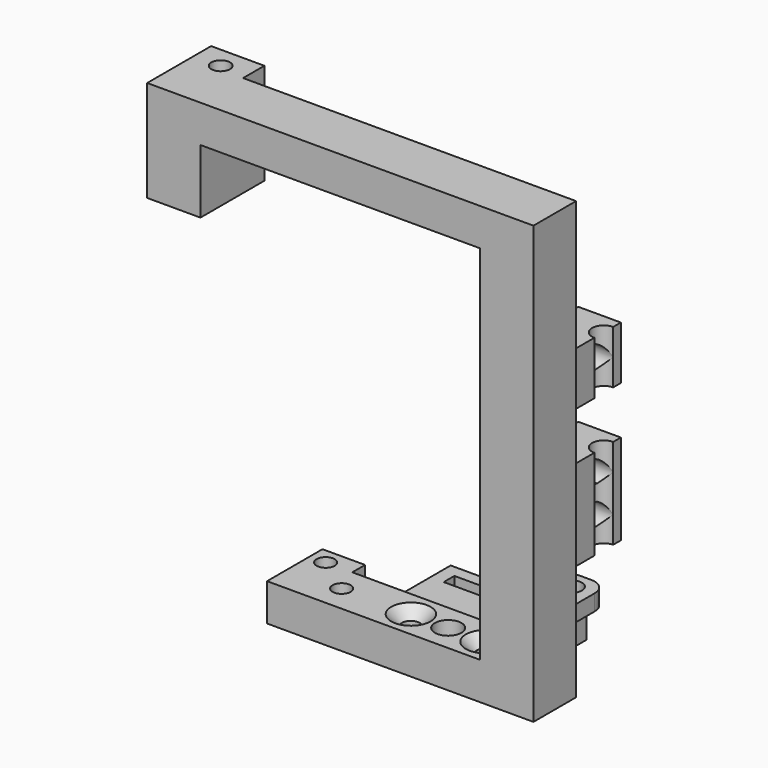
from build123d import *

# Parameters (mm, degrees)
BOX001027045198_W       = 10
BOX001027045198_H       = 2.5
BOX001027045198_DEPTH   = 20.5
BOX001027045197_W       = 10
BOX001027045197_H       = 3
BOX001027045197_DEPTH   = 21.5
BOX001027045196_W       = 4
BOX001027045196_H       = 14
BOX001027045196_DEPTH   = 25.5
CUT238_PITCH_ANGLE      = 90
CYLINDER070_R           = 1.7
CYLINDER070_DEPTH       = 50
CYLINDER069_R           = 1.7
CYLINDER069_DEPTH       = 50
CYLINDER068_R           = 1.7
CYLINDER068_DEPTH       = 50
CYLINDER067_R           = 1.7
CYLINDER067_DEPTH       = 50
CYLINDER063_R           = 2.5
CYLINDER063_DEPTH       = 50
CYLINDER064_R           = 4.5
CYLINDER064_DEPTH       = 4
BOX035_W                = 50
BOX035_H                = 10
BOX035_DEPTH            = 7
BOX034_W                = 10
BOX034_H                = 4.5
BOX034_DEPTH            = 122
BOX033_W                = 10
BOX033_H                = 10
BOX033_DEPTH            = 80
CHAMFER_SIZE            = 0.9
BOX041_W                = 8
BOX041_H                = 5
BOX041_DEPTH            = 7
CHAMFER017_SIZE         = 2
CYLINDER273_R           = 2
CYLINDER273_DEPTH       = 10
CYLINDER273_PITCH_ANGLE = 90
BOX001027045201_W       = 3
BOX001027045201_H       = 8
BOX001027045201_DEPTH   = 8
FILLET047_R             = 3
CUT246_PITCH_ANGLE      = -90
CUT246_PLACEMENT_ANGLE  = 90
BOX001027045204_W       = 8
BOX001027045204_H       = 6
BOX001027045204_DEPTH   = 17
BOX001027045205_W       = 8
BOX001027045205_H       = 6
BOX001027045205_DEPTH   = 10
CYLINDER272_R           = 2.2
CYLINDER272_DEPTH       = 30
CYLINDER271_R           = 2.2
CYLINDER271_DEPTH       = 30
CYLINDER271_PITCH_ANGLE = 90
CYLINDER270_R           = 1.7
CYLINDER270_DEPTH       = 30
CYLINDER270_PITCH_ANGLE = 90
BOX001027045200_W       = 10
BOX001027045200_H       = 9
BOX001027045200_DEPTH   = 10
CHAMFER015_SIZE         = 2
CHAMFER016_SIZE         = 2
FILLET046_R             = 3
CYLINDER275_R           = 1.75
CYLINDER275_DEPTH       = 200
BOX001027045203_W       = 10
BOX001027045203_H       = 15
BOX001027045203_DEPTH   = 19
BOX001027045202_W       = 68
BOX001027045202_H       = 10
BOX001027045202_DEPTH   = 7


with BuildPart() as cube244:
    # Box001027045198 → Box001027045198 (new body)
    with BuildSketch(Plane(origin=(63, 7.25, -46.5), x_dir=(1, 0, 0), z_dir=(0, 0, 1))):
        with Locations((5, 1.25)):
            Rectangle(BOX001027045198_W, BOX001027045198_H)
    extrude(amount=BOX001027045198_DEPTH)


with BuildPart() as pin_strip_hole:
    # Box001027045197 → Box001027045197 (new body)
    with BuildSketch(Plane(origin=(70, 7, -47), x_dir=(1, 0, 0), z_dir=(0, 0, 1))):
        with Locations((5, 1.5)):
            Rectangle(BOX001027045197_W, BOX001027045197_H)
    extrude(amount=BOX001027045197_DEPTH)

    # Fusion112152: union Cube244
    add(cube244.part)


with BuildPart() as pin_strip_hole_1:
    # Fusion112152 placement: moved
    add(pin_strip_hole.part.moved(Location((2, 0, 0))))


with BuildPart() as pin_strip_bracket:
    # Box001027045196 → Box001027045196 (new body)
    with BuildSketch(Plane(origin=(70, -2, -49), x_dir=(1, 0, 0), z_dir=(0, 0, 1))):
        with Locations((2, 7)):
            Rectangle(BOX001027045196_W, BOX001027045196_H)
    extrude(amount=BOX001027045196_DEPTH)

    # Cut238: cut pin-strip-hole
    add(pin_strip_hole_1.part, mode=Mode.SUBTRACT)


with BuildPart() as pin_strip_bracket_1:
    # Cut238 pitch: moved
    add(pin_strip_bracket.part.rotate(Axis((0, 0, 0), (0, 1, 0)), CUT238_PITCH_ANGLE))


with BuildPart() as pin_strip_bracket_2:
    # Cut238 placement: moved
    add(pin_strip_bracket_1.part.moved(Location((96, 21.7, 101))))


with BuildPart() as m3_studding011:
    # Cylinder070 → Cylinder070 (new body)
    with BuildSketch(Plane(origin=(41.5, 15, -6), x_dir=(1, 0, 0), z_dir=(0, 0, 1))):
        Circle(CYLINDER070_R)
    extrude(amount=CYLINDER070_DEPTH)


with BuildPart() as m3_clearance001:
    # Cylinder069 → Cylinder069 (new body)
    with BuildSketch(Plane(origin=(34.5, 20, -6), x_dir=(1, 0, 0), z_dir=(0, 0, 1))):
        Circle(CYLINDER069_R)
    extrude(amount=CYLINDER069_DEPTH)

    # Fusion041: union m3-studding011
    add(m3_studding011.part)


with BuildPart() as m3_studding009:
    # Cylinder068 → Cylinder068 (new body)
    with BuildSketch(Plane(origin=(68.5, 15, 2), x_dir=(1, 0, 0), z_dir=(0, 0, 1))):
        Circle(CYLINDER068_R)
    extrude(amount=CYLINDER068_DEPTH)


with BuildPart() as m3_clearance004:
    # Cylinder067 → Cylinder067 (new body)
    with BuildSketch(Plane(origin=(54.5, 15, 2), x_dir=(1, 0, 0), z_dir=(0, 0, 1))):
        Circle(CYLINDER067_R)
    extrude(amount=CYLINDER067_DEPTH)

    # Fusion039: union m3-studding009
    add(m3_studding009.part)


with BuildPart() as nut_clearance:
    # Cylinder063 → Cylinder063 (new body)
    with BuildSketch(Plane(origin=(61.5, 15, 2), x_dir=(1, 0, 0), z_dir=(0, 0, 1))):
        Circle(CYLINDER063_R)
    extrude(amount=CYLINDER063_DEPTH)


with BuildPart() as bearing_nuts:
    # Cylinder064 → Cylinder064 (new body)
    with BuildSketch(Plane(origin=(61.5, 15, 25), x_dir=(1, 0, 0), z_dir=(0, 0, 1))):
        Circle(CYLINDER064_R)
    extrude(amount=CYLINDER064_DEPTH)

    # Fusion036: union nut-clearance
    add(nut_clearance.part)


with BuildPart() as cube032:
    # Box035 → Box035 (new body)
    with BuildSketch(Plane(origin=(31.5, 10, 26), x_dir=(1, 0, 0), z_dir=(0, 0, 1))):
        with Locations((25, 5)):
            Rectangle(BOX035_W, BOX035_H)
    extrude(amount=BOX035_DEPTH)


with BuildPart() as cube031:
    # Box034 → Box034 (new body)
    with BuildSketch(Plane(origin=(62.5, 12.75, 10), x_dir=(1, 0, 0), z_dir=(0, 0, 1))):
        with Locations((5, 2.25)):
            Rectangle(BOX034_W, BOX034_H)
    extrude(amount=BOX034_DEPTH)


with BuildPart() as track_blank_c:
    # Box033 → Box033 (new body)
    with BuildSketch(Plane(origin=(71.5, 10, 25), x_dir=(1, 0, 0), z_dir=(0, 0, 1))):
        with Locations((5, 5)):
            Rectangle(BOX033_W, BOX033_H)
    extrude(amount=BOX033_DEPTH)

    # Cut022: cut Cube031
    add(cube031.part, mode=Mode.SUBTRACT)

    # Chamfer
    chamfer_edges = [track_blank_c.edges().sort_by_distance(p)[0] for p in [
        (71.5, 12.75, 65),
        (71.5, 17.25, 65),
    ]]
    chamfer(chamfer_edges, length=CHAMFER_SIZE)


with BuildPart() as track_blank_c_1:
    # Chamfer placement: moved
    add(track_blank_c.part.moved(Location((0, 0, 3))))

    # Fusion035: union Cube032
    add(cube032.part)

    # Cut024: cut bearing-nuts
    add(bearing_nuts.part, mode=Mode.SUBTRACT)

    # Cut027: cut M3-clearance004
    add(m3_clearance004.part, mode=Mode.SUBTRACT)


with BuildPart() as track_blank_f:
    # Box041 → Box041 (new body)
    with BuildSketch(Plane(origin=(31.5, 18, 26), x_dir=(1, 0, 0), z_dir=(0, 0, 1))):
        with Locations((4, 2.5)):
            Rectangle(BOX041_W, BOX041_H)
    extrude(amount=BOX041_DEPTH)

    # Fusion040: union track-blank-c
    add(track_blank_c_1.part)

    # Cut029: cut M3-clearance001
    add(m3_clearance001.part, mode=Mode.SUBTRACT)

    # Chamfer017
    chamfer017_edges = [track_blank_f.edges().sort_by_distance(p)[0] for p in [
        (52.8, 15, 33),
        (66.8, 15, 33),
    ]]
    chamfer(chamfer017_edges, length=CHAMFER017_SIZE)


with BuildPart() as cylinder289:
    # Cylinder273 → Cylinder273 (new body)
    with BuildSketch(Plane.XY):
        Circle(CYLINDER273_R)
    extrude(amount=CYLINDER273_DEPTH)


with BuildPart() as cylinder289_1:
    # Cylinder273 pitch: moved
    add(cylinder289.part.rotate(Axis((0, 0, 0), (0, 1, 0)), CYLINDER273_PITCH_ANGLE))


with BuildPart() as cylinder289_2:
    # Cylinder273 placement: moved
    add(cylinder289_1.part.moved(Location((-3, 4, 4.5))))


with BuildPart() as cable_tie_holder:
    # Box001027045201 → Box001027045201 (new body)
    with BuildSketch(Plane.XY):
        with Locations((1.5, 4)):
            Rectangle(BOX001027045201_W, BOX001027045201_H)
    extrude(amount=BOX001027045201_DEPTH)

    # Fillet047
    fillet047_edges = [cable_tie_holder.edges().sort_by_distance(p)[0] for p in [
        (1.5, 0, 8),
        (1.5, 8, 8),
    ]]
    fillet(fillet047_edges, radius=FILLET047_R)

    # Cut246: cut Cylinder289
    add(cylinder289_2.part, mode=Mode.SUBTRACT)


with BuildPart() as cable_tie_holder_1:
    # Cut246 pitch: moved
    add(cable_tie_holder.part.rotate(Axis((0, 0, 0), (0, 1, 0)), CUT246_PITCH_ANGLE))


with BuildPart() as cable_tie_holder_2:
    # Cut246 placement: moved
    add(cable_tie_holder_1.part.moved(Location((81, 11, 27))).rotate(Axis((81, 11, 27), (0, 0, 1)), CUT246_PLACEMENT_ANGLE))


with BuildPart() as part_mirroring020:
    # Part__Mirroring020: instance of cable-tie-holder
    add(cable_tie_holder_2.part.mirror(Plane(origin=(0, 0, 0), x_dir=(1, 0, 0), z_dir=(0, 1, 0))))


with BuildPart() as part_mirroring020_1:
    # Part__Mirroring020 placement: moved
    add(part_mirroring020.part.moved(Location((0, 31, 11))))


with BuildPart() as cube250:
    # Box001027045204 → Box001027045204 (new body)
    with BuildSketch(Plane(origin=(71.5, 19, 46), x_dir=(1, 0, 0), z_dir=(0, 0, 1))):
        with Locations((4, 3)):
            Rectangle(BOX001027045204_W, BOX001027045204_H)
    extrude(amount=BOX001027045204_DEPTH)


with BuildPart() as cube251:
    # Box001027045205 → Box001027045205 (new body)
    with BuildSketch(Plane(origin=(71.5, 19, 72), x_dir=(1, 0, 0), z_dir=(0, 0, 1))):
        with Locations((4, 3)):
            Rectangle(BOX001027045205_W, BOX001027045205_H)
    extrude(amount=BOX001027045205_DEPTH)


with BuildPart() as cylinder288:
    # Cylinder272 → Cylinder272 (new body)
    with BuildSketch(Plane(origin=(79.5, 5, 48), x_dir=(1, 0, 0), z_dir=(0, 0, 1))):
        Circle(CYLINDER272_R)
    extrude(amount=CYLINDER272_DEPTH)


with BuildPart() as cylinder287:
    # Cylinder271 → Cylinder271 (new body)
    with BuildSketch(Plane.XY):
        Circle(CYLINDER271_R)
    extrude(amount=CYLINDER271_DEPTH)


with BuildPart() as cylinder287_1:
    # Cylinder271 pitch: moved
    add(cylinder287.part.rotate(Axis((0, 0, 0), (0, 1, 0)), CYLINDER271_PITCH_ANGLE))


with BuildPart() as cylinder287_2:
    # Cylinder271 placement: moved
    add(cylinder287_1.part.moved(Location((74, 5, 58))))


with BuildPart() as cylinder286:
    # Cylinder270 → Cylinder270 (new body)
    with BuildSketch(Plane.XY):
        Circle(CYLINDER270_R)
    extrude(amount=CYLINDER270_DEPTH)


with BuildPart() as cylinder286_1:
    # Cylinder270 pitch: moved
    add(cylinder286.part.rotate(Axis((0, 0, 0), (0, 1, 0)), CYLINDER270_PITCH_ANGLE))


with BuildPart() as cylinder286_2:
    # Cylinder270 placement: moved
    add(cylinder286_1.part.moved(Location((57, 5, 58))))


with BuildPart() as led_pt_holder:
    # Box001027045200 → Box001027045200 (new body)
    with BuildSketch(Plane(origin=(71, 1, 53), x_dir=(1, 0, 0), z_dir=(0, 0, 1))):
        with Locations((5, 4.5)):
            Rectangle(BOX001027045200_W, BOX001027045200_H)
    extrude(amount=BOX001027045200_DEPTH)

    # Chamfer015
    chamfer015_edges = [led_pt_holder.edges().sort_by_distance(p)[0] for p in [
        (71, 10, 58),
    ]]
    chamfer(chamfer015_edges, length=CHAMFER015_SIZE)


with BuildPart() as led_pt_holder_1:
    # Chamfer015 placement: moved
    add(led_pt_holder.part.moved(Location((-1.5, 0, 0))))

    # Chamfer016
    chamfer016_edges = [led_pt_holder_1.edges().sort_by_distance(p)[0] for p in [
        (69.5, 4.5, 63),
        (69.5, 4.5, 53),
    ]]
    chamfer(chamfer016_edges, length=CHAMFER016_SIZE)

    # Cut242: cut Cylinder286
    add(cylinder286_2.part, mode=Mode.SUBTRACT)

    # Cut243: cut Cylinder287
    add(cylinder287_2.part, mode=Mode.SUBTRACT)

    # Fillet046
    fillet046_edges = [led_pt_holder_1.edges().sort_by_distance(p)[0] for p in [
        (69.5, 4.5, 55),
        (69.5, 4.5, 61),
    ]]
    fillet(fillet046_edges, radius=FILLET046_R)

    # Cut244: cut Cylinder288
    add(cylinder288.part, mode=Mode.SUBTRACT)


with BuildPart() as part_mirroring018:
    # Part__Mirroring018: instance of led-pt-holder
    add(led_pt_holder_1.part.mirror(Plane(origin=(0, 0, 0), x_dir=(1, 0, 0), z_dir=(0, 1, 0))))


with BuildPart() as part_mirroring018_1:
    # Part__Mirroring018 placement: moved
    add(part_mirroring018.part.moved(Location((0, 30, -7))))


with BuildPart() as part_mirroring017:
    # Part__Mirroring017: instance of led-pt-holder
    add(led_pt_holder_1.part.mirror(Plane(origin=(0, 0, 0), x_dir=(1, 0, 0), z_dir=(0, 1, 0))))


with BuildPart() as part_mirroring017_1:
    # Part__Mirroring017 placement: moved
    add(part_mirroring017.part.moved(Location((0, 30, 19))))


with BuildPart() as led_holders:
    # Part__Mirroring016: instance of led-pt-holder
    add(led_pt_holder_1.part.mirror(Plane(origin=(0, 0, 0), x_dir=(1, 0, 0), z_dir=(0, 1, 0))))


with BuildPart() as led_holders_1:
    # Part__Mirroring016 placement: moved
    add(led_holders.part.moved(Location((0, 30, 0))))

    # Fusion112158: union Part__Mirroring018, Part__Mirroring017
    add(part_mirroring018_1.part)
    add(part_mirroring017_1.part)


with BuildPart() as led_holders_2:
    # Fusion112158 placement: moved
    add(led_holders_1.part.moved(Location((0, 4, 0))))

    # Fusion112160: union Cube250, Cube251
    add(cube250.part)
    add(cube251.part)


with BuildPart() as m3_studding027:
    # Cylinder275 → Cylinder275 (new body)
    with BuildSketch(Plane(origin=(14, 21, 0), x_dir=(1, 0, 0), z_dir=(0, 0, 1))):
        Circle(CYLINDER275_R)
    extrude(amount=CYLINDER275_DEPTH)


with BuildPart() as cube249:
    # Box001027045203 → Box001027045203 (new body)
    with BuildSketch(Plane(origin=(9, 10, 89), x_dir=(1, 0, 0), z_dir=(0, 0, 1))):
        with Locations((5, 7.5)):
            Rectangle(BOX001027045203_W, BOX001027045203_H)
    extrude(amount=BOX001027045203_DEPTH)


with BuildPart() as roller_track:
    # Box001027045202 → Box001027045202 (new body)
    with BuildSketch(Plane(origin=(9, 10, 101), x_dir=(1, 0, 0), z_dir=(0, 0, 1))):
        with Locations((34, 5)):
            Rectangle(BOX001027045202_W, BOX001027045202_H)
    extrude(amount=BOX001027045202_DEPTH)

    # Fusion112162: union Cube249
    add(cube249.part)

    # Cut251: cut m3-studding027
    add(m3_studding027.part, mode=Mode.SUBTRACT)

    # Fusion112163: union pin-strip-bracket, track-blank-f, Part__Mirroring020, led-holders
    add(pin_strip_bracket_2.part)
    add(track_blank_f.part)
    add(part_mirroring020_1.part)
    add(led_holders_2.part)


solid = roller_track.part
